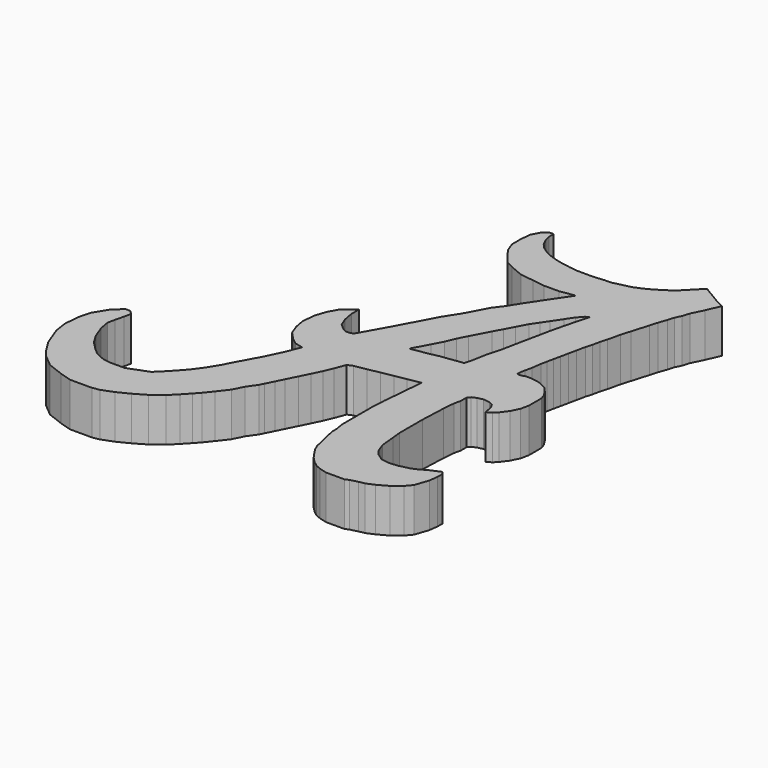
from build123d import *

# Parameters (mm, degrees)
F1_DEPTH = 7.62
F2_DEPTH = 28.194


with BuildPart() as f1:
    # F0 (on Top) → F1 (new body)
    with BuildSketch(Plane.XY):
        Polygon((8.850601, 37.679397), (8.850601, 38.744267), (8.065848, 38.705546), (7.232683, 37.972606), (6.50197, 36.611967), (6.29984, 34.896746), (6.29984, 32.834329), (6.905551, 31.23929), (7.864057, 29.877203), (9.05243, 28.379523), (10.537784, 27.581833), (12.807928, 26.623327), (15.153745, 26.320642), (17.322995, 26.017956), (19.971497, 26.017956), (22.567046, 26.448452), (21.272023, 24.529042), (20.047169, 22.713633), (18.634634, 20.620054), (16.944638, 17.971551), (15.78704, 16.437054), (14.69029, 14.39483), (13.766434, 12.674546), (12.128805, 10.104421), (10.108978, 6.343364), (8.645996, 3.61919), (5.97227, -1.148115), (5.441962, -1.374793), (4.692053, -1.374793), (4.13093, -1.148115), (2.955505, -0.113616), (2.390485, 1.374269), (2.062576, 3.114713), (2.062576, 4.754262), (0.095117, 3.316504), (-0.913837, 1.550836), (-1.59488, -0.517519), (-1.771447, -2.76244), (-1.444084, -4.530871), (-0.812941, -6.192882), (0.44825, -7.554969), (1.507651, -8.387355), (2.970634, -8.765713), (1.961681, -11.262872), (0.624817, -14.062718), (-1.065179, -17.165249), (-2.427267, -19.73808), (-3.688459, -21.781212), (-4.873979, -23.395536), (-6.816214, -25.539562), (-8.535154, -27.242468), (-10.675462, -28.055243), (-12.087995, -28.591648), (-13.475306, -28.591648), (-14.711274, -28.591648), (-16.048137, -28.364632), (-17.006643, -27.935827), (-17.813805, -27.507022), (-18.822759, -26.598964), (-20.083951, -25.312549), (-21.101605, -23.622344), (-21.925291, -21.453302), (-22.2532, -19.687634), (-22.000963, -18.350771), (-21.622606, -16.862564), (-21.345142, -15.65182), (-21.975739, -14.970777), (-22.858573, -14.970777), (-24.397228, -16.408537), (-25.809763, -18.703904), (-26.339462, -20.595692), (-26.616925, -23.395538), (-26.283324, -25.723549), (-25.630563, -27.442485), (-25.002599, -29.096125), (-23.791855, -31.063583), (-22.63156, -32.551792), (-20.563206, -34.267012), (-17.788583, -35.32641), (-15.745454, -35.957009), (-11.936654, -35.957009), (-10.675462, -35.729993), (-8.68278, -34.973279), (-6.614425, -33.939105), (-4.621742, -32.778807), (-2.704731, -31.34105), (-1.367868, -29.978963), (-0.157124, -28.692547), (0.725711, -27.708817), (1.84452, -26.316861), (3.25798, -24.491455), (4.168792, -22.669831), (5.298803, -21.071183), (5.672954, -20.322881), (6.391023, -18.886744), (7.037284, -17.594223), (7.966993, -15.734805), (8.779544, -14.109704), (9.573198, -12.484603), (10.253473, -10.878398), (10.942679, -9.039724), (11.841014, -8.64988), (13.882767, -8.277038), (15.924522, -7.904196), (17.987901, -7.527405), (20.022975, -7.155783), (22.196077, -6.758956), (22.063801, -8.384057), (21.837043, -11.161847), (21.553595, -14.034119), (21.421319, -16.35839), (21.421319, -17.718941), (21.421319, -19.759765), (21.421319, -21.781694), (21.421319, -23.217829), (21.68587, -24.540586), (21.68587, -25.636585), (21.874836, -26.468033), (22.120491, -27.601823), (22.441732, -28.830098), (22.695476, -30.109055), (23.140902, -31.135472), (23.91566, -32.307055), (24.558142, -33.214089), (25.48407, -34.140021), (26.334414, -34.801397), (27.260344, -35.198223), (28.620893, -35.550086), (31.795606, -35.550086), (32.475784, -35.254914), (33.722956, -34.933671), (34.76757, -34.730643), (36.085021, -34.158919), (37.861291, -33.195194), (39.335221, -32.004714), (40.231258, -30.965647), (41.039333, -28.608762), (41.241352, -27.043117), (41.241352, -26.016189), (40.827439, -25.510345), (40.150633, -25.804054), (39.00231, -26.302382), (37.825259, -26.978986), (36.746435, -27.447155), (34.928266, -27.868027), (33.530973, -28.002707), (32.01583, -27.750183), (30.900765, -26.975779), (30.150477, -26.083529), (29.524269, -24.416875), (29.288579, -21.874806), (29.103395, -20.191317), (29.103395, -17.935444), (29.103395, -15.191356), (29.286936, -10.842634), (29.456813, -8.7758), (29.725784, -7.643288), (29.725784, -6.3409), (30.150477, -5.859582), (30.900765, -5.533985), (31.873195, -5.307235), (32.997043, -5.462235), (33.717889, -5.817113), (34.057643, -6.425838), (34.269989, -7.261066), (34.425709, -8.06798), (35.253575, -7.634491), (35.897974, -6.977938), (36.814072, -5.751515), (37.52564, -4.306142), (37.823245, -2.900895), (37.823245, -1.768383), (37.823245, -0.097928), (37.469335, 0.85055), (36.846451, 1.799029), (36.236152, 2.547001), (35.515133, 2.901964), (34.712175, 3.297267), (34.098201, 3.427295), (33.387627, 3.525296), (32.868508, 3.596892), (32.14168, 3.596892), (31.452868, 3.398702), (30.762094, 3.398702), (30.762094, 4.032964), (30.940033, 4.873168), (31.193998, 6.072352), (31.422739, 7.730882), (31.645839, 8.784328), (31.88396, 9.9087), (32.14168, 11.125617), (32.424651, 12.461762), (32.717205, 13.843164), (33.056384, 15.444715), (33.387627, 16.561963), (33.662375, 17.859282), (34.002554, 19.006666), (34.5145, 21.22859), (35.007432, 22.891195), (35.892323, 25.875833), (36.282275, 27.210671), (36.792215, 28.665494), (37.118973, 29.768859), (37.602115, 30.750241), (37.998294, 32.036328), (38.996946, 34.064841), (40.02743, 36.440634), (39.52188, 36.68952), (38.547002, 37.16946), (37.452132, 37.844382), (36.087297, 38.654283), (35.266229, 39.175183), (34.843158, 38.744132), (34.300401, 38.191137), (33.66156, 37.540246), (33.297639, 37.16946), (32.502733, 36.35956), (31.452861, 35.564657), (30.492978, 34.949731), (29.56309, 34.379799), (28.408231, 33.779871), (26.998401, 33.179946), (25.738554, 32.894976), (23.848783, 32.445032), (22.813909, 32.445032), (21.059122, 32.265056), (19.664291, 32.265056), (18.149473, 32.265056), (16.799638, 32.430034), (15.299819, 32.685004), (14.024974, 32.96997), (12.765126, 33.37492), (11.340299, 34.064837), (10.42541, 34.709759), (9.675501, 35.534658), (9.060576, 36.794506), align=None)
        Polygon((27.400404, 22.342147), (28.007146, 22.713633), (27.557708, 20.993836), (26.99591, 18.926423), (26.321754, 16.117437), (25.782429, 13.510698), (25.265576, 11.038791), (24.636364, 7.892728), (23.894791, 5.128686), (23.445353, 2.679252), (23.106666, 1.416874), (21.175694, 1.151164), (19.288056, 0.903973), (17.557722, 0.544423), (15.924522, 0.274761), (15.186186, 0.152852), (14.723939, 0.076529), (14.726263, 0.274761), (16.142728, 2.912315), (17.089639, 4.675529), (17.800111, 6.400511), (18.591428, 7.960144), (20.266346, 11.078957), (21.069286, 12.574088), (21.896684, 14.11476), (22.83631, 15.864408), (23.714797, 17.166453), (24.527094, 18.370392), (25.639403, 20.018994), (26.54572, 21.362286), align=None, mode=Mode.SUBTRACT)
        Polygon((27.557708, 20.993836), (28.007146, 22.713633), (27.400404, 22.342147), (26.54572, 21.362286), (25.639403, 20.018994), (24.527094, 18.370392), (23.714797, 17.166453), (22.83631, 15.864408), (21.896684, 14.11476), (21.069286, 12.574088), (20.266346, 11.078957), (18.591428, 7.960144), (17.800111, 6.400511), (17.089639, 4.675529), (16.142728, 2.912315), (14.726263, 0.274761), (14.723939, 0.076529), (15.186186, 0.152852), (15.924522, 0.274761), (17.557722, 0.544423), (19.288056, 0.903973), (21.175694, 1.151164), (23.106666, 1.416874), (23.445353, 2.679252), (23.894791, 5.128686), (24.636364, 7.892728), (25.265576, 11.038791), (25.782429, 13.510698), (26.321754, 16.117437), (26.99591, 18.926423), align=None)
    extrude(amount=F1_DEPTH)

    # F0 (on Top) → F2 (cut)
    with BuildSketch(Plane.XY):
        Polygon((27.557708, 20.993836), (28.007146, 22.713633), (27.400404, 22.342147), (26.54572, 21.362286), (25.639403, 20.018994), (24.527094, 18.370392), (23.714797, 17.166453), (22.83631, 15.864408), (21.896684, 14.11476), (21.069286, 12.574088), (20.266346, 11.078957), (18.591428, 7.960144), (17.800111, 6.400511), (17.089639, 4.675529), (16.142728, 2.912315), (14.726263, 0.274761), (14.723939, 0.076529), (15.186186, 0.152852), (15.924522, 0.274761), (17.557722, 0.544423), (19.288056, 0.903973), (21.175694, 1.151164), (23.106666, 1.416874), (23.445353, 2.679252), (23.894791, 5.128686), (24.636364, 7.892728), (25.265576, 11.038791), (25.782429, 13.510698), (26.321754, 16.117437), (26.99591, 18.926423), align=None)
    extrude(amount=F2_DEPTH, mode=Mode.SUBTRACT)


solid = f1.part
